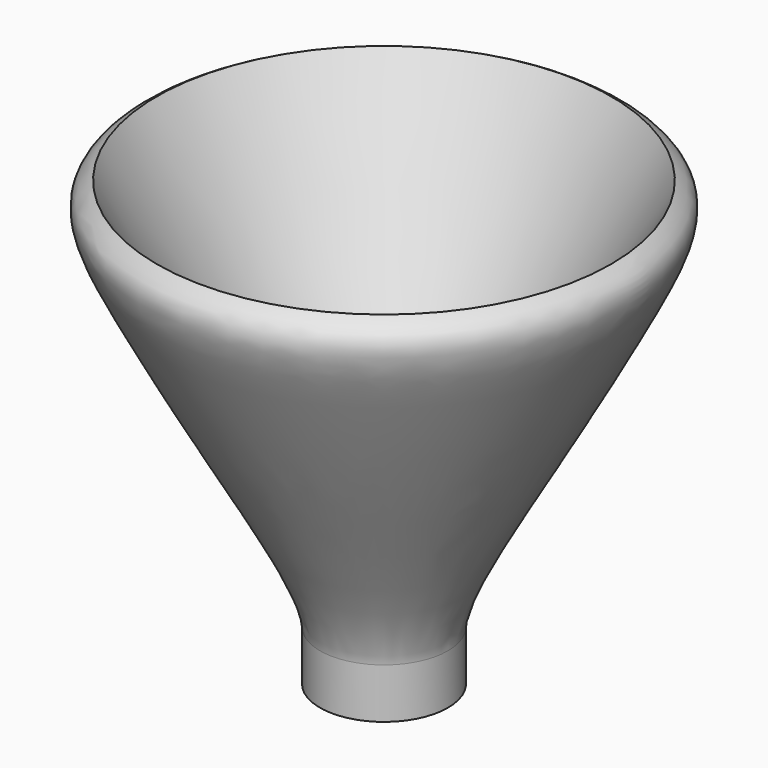
from build123d import *


with BuildPart() as f1:
    # F0 (on Front) → F1 (revolve)
    with BuildSketch(Plane.XZ):
        with BuildLine():
            Line((4.826, -3.4941979684), (4.826, -13.6541979684))
            Line((4.826, -13.6541979684), (11.3859334961, -13.6541979684))
            Line((11.3859334961, -13.6541979684), (11.3859334961, -4.7446694225))
            add(Edge.make_bspline(
                [(40.4069719967, 65.2422590558), (40.855441035, 64.9833353358), (45.509668883, 62.6032034344), (38.9954447348, 48.6101027691), (24.8680224447, 23.1793958606), (11.3859334961, 0.2079311921), (11.3859334961, -4.7446694225)],
                knots=[0, 0, 0, 0, 0.1160309715, 0.3284433289, 0.6756915068, 1, 1, 1, 1], degree=3))
            Line((40.4069719967, 65.2422590558), (10.9985226281, 14.3053305775))
            ThreePointArc((10.9985226281, 14.3053305775), (6.35, 9.6568079494), (0, 7.9553305775))
            Line((0, 7.9553305775), (0, -3.4941979684))
            Line((0, -3.4941979684), (4.826, -3.4941979684))
        make_face()
    revolve(axis=Axis((0, 0, 2.2305663045), (0, 0, -1)))


solid = f1.part
